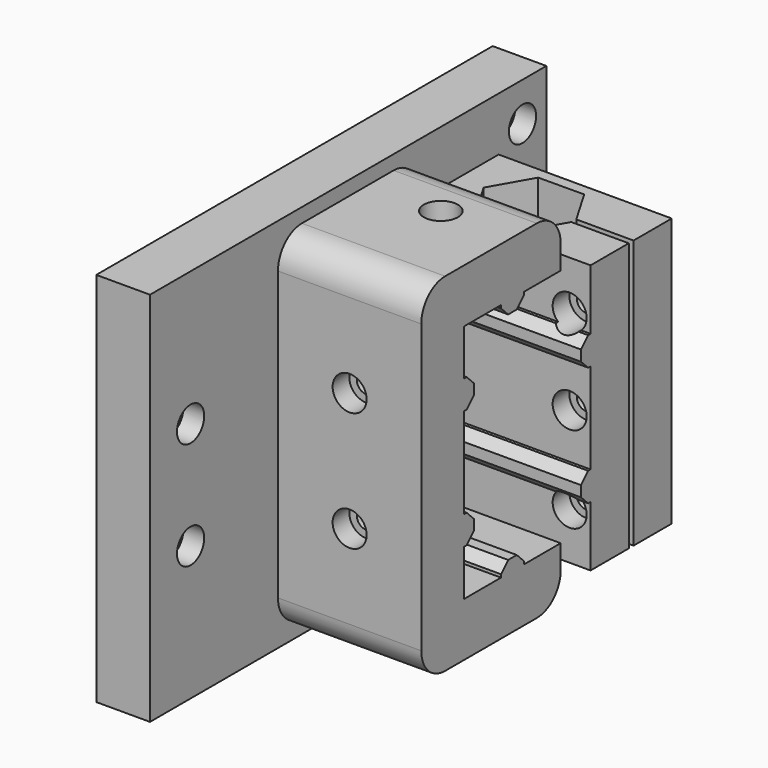
from build123d import *

# Parameters (mm, degrees)
F2_W      = 9
F2_H      = 83
F3_DEPTH  = 63
F4_R      = 2.85
F5_DEPTH  = 3.5
F6_R      = 1.6
F7_DEPTH  = 25
F8_W      = 17
F8_H      = 45
F9_DEPTH  = 20
F11_DEPTH = 70
F12_W     = 8
F12_H     = 45
F13_DEPTH = 9
F14_DEPTH = 5
F15_R     = 2.85
F16_DEPTH = 3.5
F17_R     = 1.6
F18_DEPTH = 25
F20_DEPTH = 3
F21_W     = 9
F21_H     = 40.2
F22_DEPTH = 24
F23_W     = 24
F23_H     = 4.8
F24_DEPTH = 2
F25_SIZE  = 1.5
F26_R     = 1.6
F27_DEPTH = 25
F28_R     = 1.6
F29_DEPTH = 25
F30_W     = 29
F30_H     = 4.8
F31_DEPTH = 2
F32_SIZE  = 1.5
F33_DEPTH = 3
F34_W     = 24
F34_H     = 4.8
F35_DEPTH = 2
F36_SIZE  = 1.5
F37_R     = 1.6
F38_DEPTH = 25
F39_W     = 24
F39_H     = 4.8
F40_DEPTH = 2
F41_SIZE  = 1.5
F42_R     = 1.6
F43_DEPTH = 25
F44_R     = 2.85
F45_DEPTH = 3.5
F46_R     = 2.85
F47_DEPTH = 3.5
F48_R     = 5
F49_R     = 5
F50_R     = 5
F51_R     = 2.85
F51_R_2   = 1.6
F52_DEPTH = 3.5


with BuildPart() as f3:
    # F2 (on Top) → F3 (new body)
    with BuildSketch(Plane.XY):
        with Locations((4.5, 41.5)):
            Rectangle(F2_W, F2_H)
        with Locations((4.5, 41.5)):
            Rectangle(F2_W, F2_H)
    extrude(amount=F3_DEPTH)

    # F4 (on face) → F5 (cut)
    with BuildSketch(Plane.YZ.offset(9)):
        with Locations((8.5, 40.5)):
            Circle(F4_R)
        with Locations((8.5, 22.5)):
            Circle(F4_R)
        with Locations((78, 56.5)):
            Circle(F4_R)
        with Locations((78, 38.5)):
            Circle(F4_R)
        with Locations((78, 24.5)):
            Circle(F4_R)
        with Locations((78, 6.5)):
            Circle(F4_R)
        with Locations((8.5, 40.5)):
            Circle(F4_R)
    extrude(amount=-F5_DEPTH, mode=Mode.SUBTRACT)

    # F6 (on face) → F7 (cut)
    with BuildSketch(Plane.YZ.offset(9)):
        with Locations((8.5, 40.5)):
            Circle(F6_R)
        with Locations((8.5, 22.5)):
            Circle(F6_R)
        with Locations((78, 24.5)):
            Circle(F6_R)
        with Locations((78, 38.5)):
            Circle(F6_R)
        with Locations((78, 56.5)):
            Circle(F6_R)
        with Locations((78, 6.5)):
            Circle(F6_R)
    extrude(amount=-F7_DEPTH, mode=Mode.SUBTRACT)

    # F8 (on face) → F9 (join)
    with BuildSketch(Plane.YZ.offset(9)):
        with Locations((64.5, 31.5)):
            Rectangle(F8_W, F8_H)
        with Locations((64.5, 31.5)):
            Rectangle(F8_W, F8_H)
    extrude(amount=F9_DEPTH)

    # F10 (on face) → F11 (cut)
    with BuildSketch(Plane.XY.offset(54)):
        Polygon((28.6786117956, 64.5474786816), (24.7981881534, 71.1736122216), (17.1195763578, 71.12613354), (13.3213882044, 64.4525213184), (17.2018118466, 57.8263877784), (24.8804236422, 57.87386646), align=None)
        Polygon((28.6786117956, 64.5474786816), (24.7981881534, 71.1736122216), (17.1195763578, 71.12613354), (13.3213882044, 64.4525213184), (17.2018118466, 57.8263877784), (24.8804236422, 57.87386646), align=None)
    extrude(amount=-F11_DEPTH, mode=Mode.SUBTRACT)

    # F12 (on face) → F13 (join)
    with BuildSketch(Plane.YZ.offset(29)):
        with Locations((69, 31.5)):
            Rectangle(F12_W, F12_H)
        with Locations((60, 31.5)):
            Rectangle(F12_W, F12_H)
    extrude(amount=F13_DEPTH)

    # F14 (cut): a face of the model
    f14_faces = [f3.faces().sort_by_distance(p)[0] for p in [
        (29, 64.5, 31.5),
    ]]
    extrude(f14_faces, amount=-F14_DEPTH, mode=Mode.SUBTRACT)

    # F15 (on face) → F16 (cut)
    with BuildSketch(Plane.XZ.offset(-56)):
        with Locations((34.5, 46)):
            Circle(F15_R)
        with Locations((34.5, 31.5)):
            Circle(F15_R)
        with Locations((34.5, 17)):
            Circle(F15_R)
    extrude(amount=-F16_DEPTH, mode=Mode.SUBTRACT)

    # F17 (on face) → F18 (cut)
    with BuildSketch(Plane.XZ.offset(-59.5)):
        with Locations((34.5, 46)):
            Circle(F17_R)
        with Locations((34.5, 31.5)):
            Circle(F17_R)
        with Locations((34.5, 17)):
            Circle(F17_R)
    extrude(amount=-F18_DEPTH, mode=Mode.SUBTRACT)

    # F19 (on face) → F20 (cut)
    with BuildSketch(Plane(origin=(0, 73, 0), x_dir=(-1, 0, 0), z_dir=(0, 1, 0))):
        Polygon((-32.8545517328, 48.85), (-36.1454482672, 48.85), (-37.7908965344, 46), (-36.1454482672, 43.15), (-32.8545517328, 43.15), (-31.2091034656, 46), align=None)
        Polygon((-37.7908965344, 31.5), (-36.1454482672, 28.65), (-32.8545517328, 28.65), (-31.2091034656, 31.5), (-32.8545517328, 34.35), (-36.1454482672, 34.35), align=None)
        Polygon((-31.2091034656, 17), (-32.8545517328, 19.85), (-36.1454482672, 19.85), (-37.7908965344, 17), (-36.1454482672, 14.15), (-32.8545517328, 14.15), align=None)
    extrude(amount=-F20_DEPTH, mode=Mode.SUBTRACT)

    # F21 (on face) → F22 (join)
    with BuildSketch(Plane.YZ.offset(9)):
        with Locations((31.3, 31.5)):
            Rectangle(F21_W, F21_H)
        Polygon((26.8, 51.6), (35.8, 51.6), (56, 51.6), (56, 60.6), (26.8, 60.6), align=None)
        Polygon((56, 11.4), (35.8, 11.4), (26.8, 11.4), (26.8, 2.4), (56, 2.4), align=None)
        with Locations((31.3, 31.5)):
            Rectangle(F21_W, F21_H)
    extrude(amount=F22_DEPTH)

    # F23 (on face) → F24 (join)
    with BuildSketch(Plane(origin=(0, 35.8, 0), x_dir=(-1, 0, 0), z_dir=(0, 1, 0))):
        with Locations((-21, 41.5)):
            Rectangle(F23_W, F23_H)
        with Locations((-21, 21.5)):
            Rectangle(F23_W, F23_H)
    extrude(amount=F24_DEPTH)

    # F25
    f25_edges = [f3.edges().sort_by_distance(p)[0] for p in [
        (21, 37.8, 39.1),
        (21, 37.8, 43.9),
        (21, 37.8, 23.9),
        (21, 37.8, 19.1),
    ]]
    chamfer(f25_edges, length=F25_SIZE)

    # F26 (on face) → F27 (cut)
    with BuildSketch(Plane(origin=(0, 37.8, 0), x_dir=(-1, 0, 0), z_dir=(0, 1, 0))):
        with Locations((-21, 41.5)):
            Circle(F26_R)
        with BuildLine():
            Line((-22.3228756555, 42.4), (-19.6771243445, 42.4))
            ThreePointArc((-19.6771243445, 42.4), (-21, 43.1), (-22.3228756555, 42.4))
        make_face()
    extrude(amount=-F27_DEPTH, mode=Mode.SUBTRACT)

    # F28 (on face) → F29 (cut)
    with BuildSketch(Plane(origin=(0, 37.8, 0), x_dir=(-1, 0, 0), z_dir=(0, 1, 0))):
        with Locations((-21, 21.5)):
            Circle(F28_R)
    extrude(amount=-F29_DEPTH, mode=Mode.SUBTRACT)

    # F30 (on face) → F31 (join)
    with BuildSketch(Plane.XZ.offset(-56)):
        with Locations((23.5, 21.5)):
            Rectangle(F30_W, F30_H)
        with Locations((23.5, 41.5)):
            Rectangle(F30_W, F30_H)
    extrude(amount=F31_DEPTH)

    # F32
    f32_edges = [f3.edges().sort_by_distance(p)[0] for p in [
        (23.5, 54, 43.9),
        (23.5, 54, 39.1),
        (23.5, 54, 23.9),
        (23.5, 54, 19.1),
    ]]
    chamfer(f32_edges, length=F32_SIZE)

    # F15 (on face) → F33 (cut)
    with BuildSketch(Plane.XZ.offset(-56)):
        with Locations((34.5, 46)):
            Circle(F15_R)
        with Locations((34.5, 31.5)):
            Circle(F15_R)
        with Locations((34.5, 17)):
            Circle(F15_R)
    extrude(amount=F33_DEPTH, mode=Mode.SUBTRACT)

    # F34 (on face) → F35 (join)
    with BuildSketch(Plane(origin=(0, 0, 51.6), x_dir=(1, 0, 0), z_dir=(0, 0, -1))):
        with Locations((21, -45.9)):
            Rectangle(F34_W, F34_H)
    extrude(amount=F35_DEPTH)

    # F36
    f36_edges = [f3.edges().sort_by_distance(p)[0] for p in [
        (21, 43.5, 49.6),
        (21, 48.3, 49.6),
    ]]
    chamfer(f36_edges, length=F36_SIZE)

    # F37 (on face) → F38 (cut)
    with BuildSketch(Plane(origin=(0, 0, 49.6), x_dir=(1, 0, 0), z_dir=(0, 0, -1))):
        with Locations((21, -45.9)):
            Circle(F37_R)
    extrude(amount=-F38_DEPTH, mode=Mode.SUBTRACT)

    # F39 (on face) → F40 (join)
    with BuildSketch(Plane.XY.offset(11.4)):
        with Locations((21, 45.9)):
            Rectangle(F39_W, F39_H)
    extrude(amount=F40_DEPTH)

    # F41
    f41_edges = [f3.edges().sort_by_distance(p)[0] for p in [
        (21, 48.3, 13.4),
        (21, 43.5, 13.4),
    ]]
    chamfer(f41_edges, length=F41_SIZE)

    # F42 (on face) → F43 (cut)
    with BuildSketch(Plane.XY.offset(13.4)):
        with Locations((21, 45.9)):
            Circle(F42_R)
    extrude(amount=-F43_DEPTH, mode=Mode.SUBTRACT)

    # F44 (on face) → F45 (cut)
    with BuildSketch(Plane(origin=(0, 0, 2.4), x_dir=(1, 0, 0), z_dir=(0, 0, -1))):
        with Locations((21, -45.9)):
            Circle(F44_R)
    extrude(amount=-F45_DEPTH, mode=Mode.SUBTRACT)

    # F46 (on face) → F47 (cut)
    with BuildSketch(Plane.XZ.offset(-26.8)):
        with Locations((21, 41.5)):
            Circle(F46_R)
        with Locations((21, 21.5)):
            Circle(F46_R)
    extrude(amount=-F47_DEPTH, mode=Mode.SUBTRACT)

    # F48
    f48_edges = [f3.edges().sort_by_distance(p)[0] for p in [
        (21, 26.8, 2.4),
    ]]
    fillet(f48_edges, radius=F48_R)

    # F49
    f49_edges = [f3.edges().sort_by_distance(p)[0] for p in [
        (21, 26.8, 60.6),
    ]]
    fillet(f49_edges, radius=F49_R)

    # F50
    f50_edges = [f3.edges().sort_by_distance(p)[0] for p in [
        (21, 56, 2.4),
        (21, 56, 60.6),
    ]]
    fillet(f50_edges, radius=F50_R)

    # F51 (on face) → F52 (cut)
    with BuildSketch(Plane.XY.offset(60.6)):
        with Locations((21, 45.9)):
            Circle(F51_R)
        with Locations((21, 45.9)):
            Circle(F51_R_2, mode=Mode.SUBTRACT)
        with Locations((21, 45.9)):
            Circle(F51_R)
        with Locations((21, 45.9)):
            Circle(F51_R_2, mode=Mode.SUBTRACT)
    extrude(amount=-F52_DEPTH, mode=Mode.SUBTRACT)


solid = f3.part
